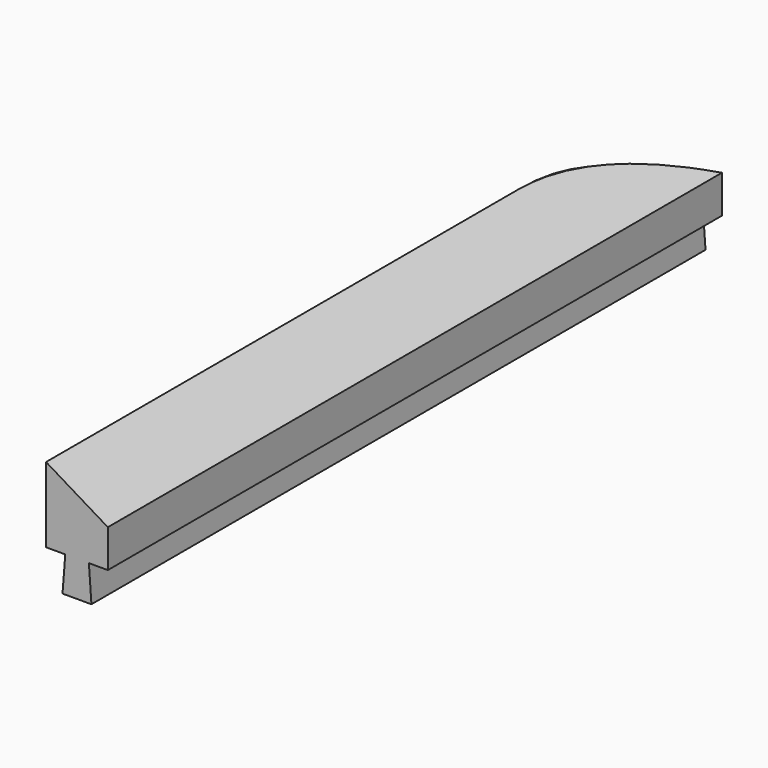
from build123d import *

# Parameters (mm, degrees)
F1_DEPTH = 165.1


with BuildPart() as f1:
    # F0 (on Front) → F1 (new body)
    with BuildSketch(Plane.XZ):
        Polygon((0, 0), (4.1275, 0), (3.5306, -7.62), (9.7536, -7.62), (9.2075, 0), (13.2842, 0), (13.2842, 8.128), (0, 16.1544), align=None)
    extrude(amount=F1_DEPTH)

    # F4: sweep along a path in F3
    with BuildLine(Plane(origin=(0, 0, 0), x_dir=(0, -1, 0), z_dir=(-1, 0, 0))) as f4_path:
        ThreePointArc((38.1, 16.1544), (17.408367, 11.948975), (0, 0))
    # F2 (on face) → F4 (sweep, cut)
    with BuildSketch(Plane(origin=(0, 0, 0), x_dir=(-1, 0, 0), z_dir=(0, 1, 0))):
        Polygon((0, 0), (0, 16.1544), (-13.2842, 8.128), align=None)
    sweep(path=f4_path.line, mode=Mode.SUBTRACT)


solid = f1.part
